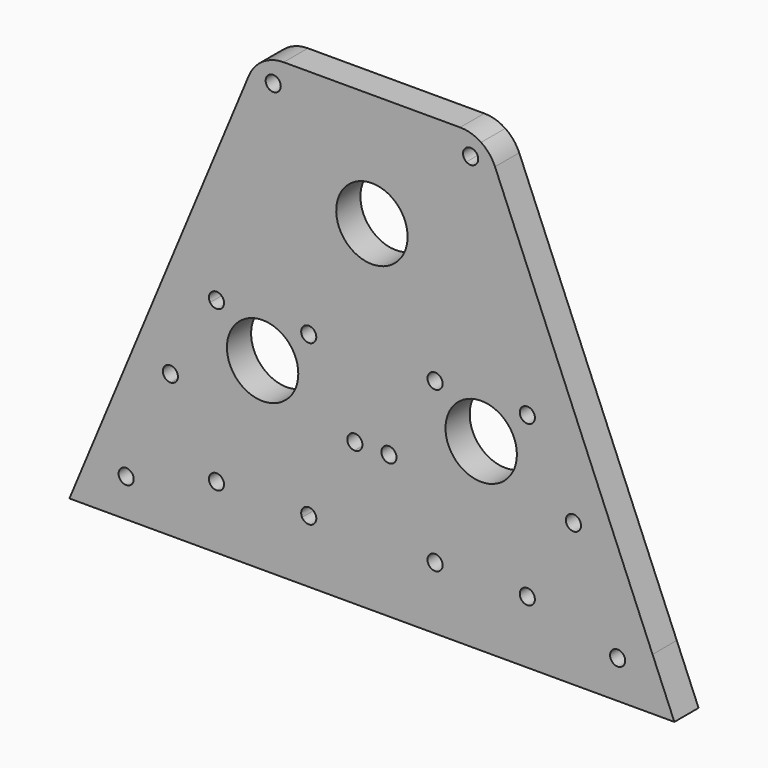
from build123d import *

# Parameters (mm, degrees)
F0_R     = 1.27
F0_R_2   = 5.9944
F1_DEPTH = 5.08


with BuildPart() as f1:
    # F0 (on Front) → F1 (new body)
    with BuildSketch(Plane.XZ):
        with BuildLine():
            Line((-92.075, 0), (-9.525, 0))
            Line((-9.525, 0), (0, 0))
            Line((0, 0), (-3.663462, 8.792308))
            Line((-3.663462, 8.792308), (-30.121795, 72.292308))
            ThreePointArc((-30.121795, 72.292308), (-31.081044, 73.886094), (-32.460987, 75.133519))
            ThreePointArc((-32.460987, 75.133519), (-34.143204, 75.927534), (-35.983333, 76.2))
            Line((-35.983333, 76.2), (-50.8, 76.2))
            Line((-50.8, 76.2), (-65.616667, 76.2))
            ThreePointArc((-65.616667, 76.2), (-67.456796, 75.927534), (-69.139013, 75.133519))
            ThreePointArc((-69.139013, 75.133519), (-70.518956, 73.886094), (-71.478205, 72.292308))
            Line((-71.478205, 72.292308), (-97.936538, 8.792308))
            Line((-97.936538, 8.792308), (-101.6, 0))
            Line((-101.6, 0), (-92.075, 0))
        make_face()
        with Locations((-92.075, 6.35)):
            Circle(F0_R, mode=Mode.SUBTRACT)
        with BuildLine():
            ThreePointArc((-60.336837, 36.662113), (-55.738543, 31.670458), (-53.714789, 25.192391))
            ThreePointArc((-53.714789, 25.192391), (-52.783309, 24.839701), (-52.39274, 23.923458))
            ThreePointArc((-52.39274, 23.923458), (-52.783309, 23.007215), (-53.714789, 22.654525))
            ThreePointArc((-53.714789, 22.654525), (-55.738543, 16.176458), (-60.336837, 11.184803))
            ThreePointArc((-60.336837, 11.184803), (-60.190009, 10.859035), (-60.13974, 10.50526))
            ThreePointArc((-60.13974, 10.50526), (-61.106252, 9.272055), (-62.534693, 9.91587))
            ThreePointArc((-62.534693, 9.91587), (-69.15674, 8.429458), (-75.778787, 9.91587))
            ThreePointArc((-75.778787, 9.91587), (-77.53874, 9.405408), (-77.976644, 11.184803))
            ThreePointArc((-77.976644, 11.184803), (-82.574938, 16.176458), (-84.598691, 22.654525))
            ThreePointArc((-84.598691, 22.654525), (-85.92074, 23.923458), (-84.598691, 25.192391))
            ThreePointArc((-84.598691, 25.192391), (-82.574938, 31.670458), (-77.976644, 36.662113))
            ThreePointArc((-77.976644, 36.662113), (-77.53874, 38.441508), (-75.778787, 37.931046))
            ThreePointArc((-75.778787, 37.931046), (-69.15674, 39.417458), (-62.534693, 37.931046))
            ThreePointArc((-62.534693, 37.931046), (-61.106252, 38.574861), (-60.13974, 37.341656))
            ThreePointArc((-60.13974, 37.341656), (-60.190009, 36.987881), (-60.336837, 36.662113))
        make_face(mode=Mode.SUBTRACT)
        with Locations((-40.19026, 10.50526)):
            Circle(F0_R, mode=Mode.SUBTRACT)
        with Locations((-9.525, 6.35)):
            Circle(F0_R, mode=Mode.SUBTRACT)
        with Locations((-24.69626, 10.50526)):
            Circle(F0_R, mode=Mode.SUBTRACT)
        with Locations((-47.93726, 23.923458)):
            Circle(F0_R, mode=Mode.SUBTRACT)
        with Locations((-40.19026, 37.341656)):
            Circle(F0_R, mode=Mode.SUBTRACT)
        with Locations((-32.44326, 30.933858)):
            Circle(F0_R_2, mode=Mode.SUBTRACT)
        with Locations((-16.94926, 23.923458)):
            Circle(F0_R, mode=Mode.SUBTRACT)
        with Locations((-24.69626, 37.341656)):
            Circle(F0_R, mode=Mode.SUBTRACT)
        with BuildLine():
            ThreePointArc((-44.8056, 57.15), (-55.038681, 52.911319), (-50.8, 63.1444))
            ThreePointArc((-50.8, 63.1444), (-46.561319, 61.388681), (-44.8056, 57.15))
        make_face(mode=Mode.SUBTRACT)
        with BuildLine():
            ThreePointArc((-66.673371, 71.435056), (-68.434544, 71.78729), (-68.082309, 73.548464))
            ThreePointArc((-68.082309, 73.548464), (-66.77858, 73.611486), (-66.10784, 72.49176))
            ThreePointArc((-66.10784, 72.49176), (-66.258113, 71.8925), (-66.673371, 71.435056))
        make_face(mode=Mode.SUBTRACT)
        with BuildLine():
            ThreePointArc((-34.926629, 71.435056), (-35.278864, 73.196229), (-33.517691, 73.548464))
            ThreePointArc((-33.517691, 73.548464), (-33.102433, 73.091019), (-32.95216, 72.49176))
            ThreePointArc((-32.95216, 72.49176), (-33.622901, 71.372033), (-34.926629, 71.435056))
        make_face(mode=Mode.SUBTRACT)
        with BuildLine():
            ThreePointArc((-53.714789, 22.654525), (-54.93274, 23.923458), (-53.714789, 25.192391))
            ThreePointArc((-53.714789, 25.192391), (-55.738543, 31.670458), (-60.336837, 36.662113))
            ThreePointArc((-60.336837, 36.662113), (-62.04474, 36.241803), (-62.534693, 37.931046))
            ThreePointArc((-62.534693, 37.931046), (-69.15674, 39.417458), (-75.778787, 37.931046))
            ThreePointArc((-75.778787, 37.931046), (-75.670535, 37.645144), (-75.63374, 37.341656))
            ThreePointArc((-75.63374, 37.341656), (-76.549966, 36.121925), (-77.976644, 36.662113))
            ThreePointArc((-77.976644, 36.662113), (-82.574938, 31.670458), (-84.598691, 25.192391))
            ThreePointArc((-84.598691, 25.192391), (-83.734497, 24.802889), (-83.38074, 23.923458))
            ThreePointArc((-83.38074, 23.923458), (-83.734497, 23.044027), (-84.598691, 22.654525))
            ThreePointArc((-84.598691, 22.654525), (-82.574938, 16.176458), (-77.976644, 11.184803))
            ThreePointArc((-77.976644, 11.184803), (-76.549966, 11.724991), (-75.63374, 10.50526))
            ThreePointArc((-75.63374, 10.50526), (-75.670535, 10.201772), (-75.778787, 9.91587))
            ThreePointArc((-75.778787, 9.91587), (-69.15674, 8.429458), (-62.534693, 9.91587))
            ThreePointArc((-62.534693, 9.91587), (-62.04474, 11.605113), (-60.336837, 11.184803))
            ThreePointArc((-60.336837, 11.184803), (-55.738543, 16.176458), (-53.714789, 22.654525))
        make_face()
        with Locations((-69.15674, 30.933858)):
            Circle(F0_R_2, mode=Mode.SUBTRACT)
    extrude(amount=F1_DEPTH)


solid = f1.part
